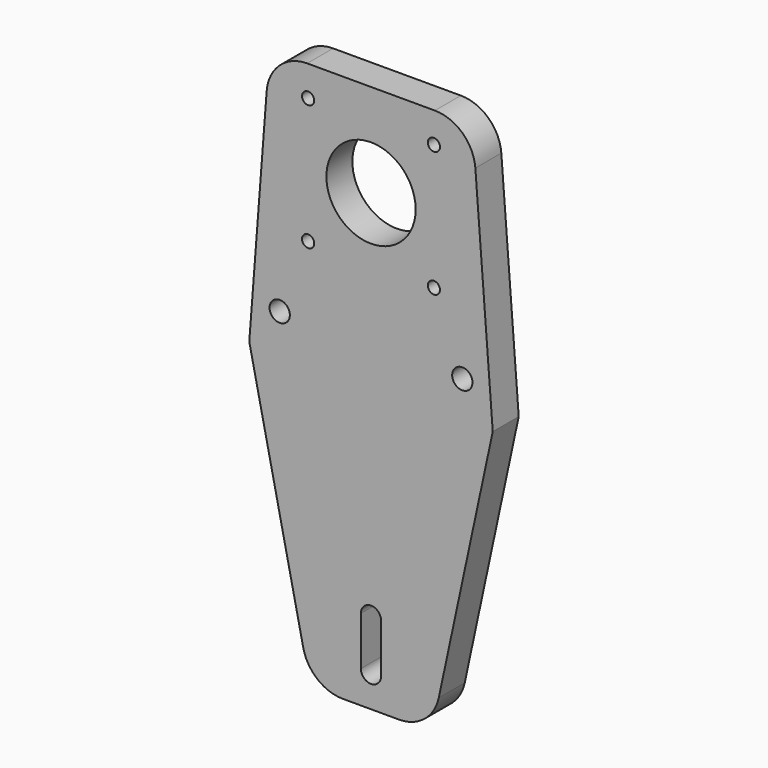
from build123d import *

# Parameters (mm, degrees)
F0_R     = 2.5
F0_R_2   = 1.5
F0_R_3   = 11
F2_DEPTH = 8


with BuildPart() as f2:
    # F0 (on Front) → F2 (new body)
    with BuildSketch(Plane.XZ):
        with BuildLine():
            Line((15.7396886074, 65), (0, 65))
            Line((0, 65), (-15.7396886074, 65))
            ThreePointArc((-15.7396886074, 65), (-22.5341845457, 62.3372218819), (-25.7102334624, 55.7669649888))
            Line((-25.7102334624, 55.7669649888), (-30, 0))
            Line((-30, 0), (-16.6938662384, -62.0952908873))
            ThreePointArc((-16.6938662384, -62.0952908873), (-13.202617548, -67.7766608796), (-6.9158420977, -70))
            Line((-6.9158420977, -70), (0, -70))
            Line((0, -70), (6.9158420977, -70))
            ThreePointArc((6.9158420977, -70), (13.202617548, -67.7766608796), (16.6938662384, -62.0952908873))
            Line((16.6938662384, -62.0952908873), (30, 0))
            Line((30, 0), (25.7102334624, 55.7669649888))
            ThreePointArc((25.7102334624, 55.7669649888), (22.5341845457, 62.3372218819), (15.7396886074, 65))
        make_face()
        with BuildLine():
            Line((-2.5, -62), (-2.5, -50))
            ThreePointArc((-2.5, -50), (0, -47.5), (2.5, -50))
            Line((2.5, -50), (2.5, -62))
            ThreePointArc((2.5, -62), (0, -64.5), (-2.5, -62))
        make_face(mode=Mode.SUBTRACT)
        with Locations((-22.5, 9)):
            Circle(F0_R, mode=Mode.SUBTRACT)
        with Locations((-15.5, 26.5)):
            Circle(F0_R_2, mode=Mode.SUBTRACT)
        with Locations((-15.5, 57.5)):
            Circle(F0_R_2, mode=Mode.SUBTRACT)
        with Locations((22.5, 9)):
            Circle(F0_R, mode=Mode.SUBTRACT)
        with Locations((15.5, 26.5)):
            Circle(F0_R_2, mode=Mode.SUBTRACT)
        with Locations((0, 42)):
            Circle(F0_R_3, mode=Mode.SUBTRACT)
        with Locations((15.5, 57.5)):
            Circle(F0_R_2, mode=Mode.SUBTRACT)
    extrude(amount=F2_DEPTH)


solid = f2.part
